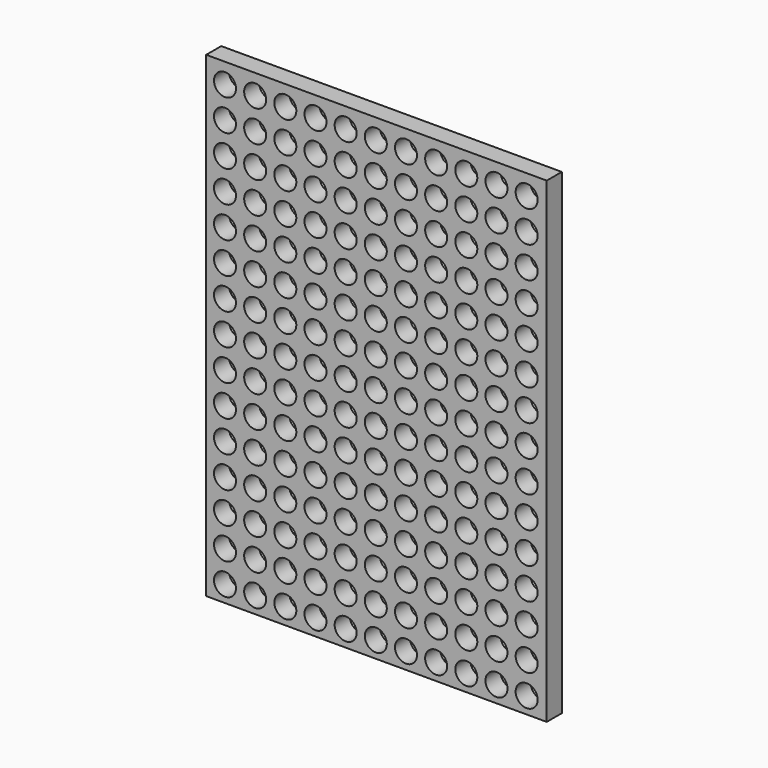
from build123d import *

# Parameters (mm, degrees)
F0_W     = 54.193953
F0_H     = 75.831049
F0_R     = 1.75
F1_DEPTH = 3


with BuildPart() as f1:
    # F0 (on Front) → F1 (new body)
    with BuildSketch(Plane.XZ):
        with Locations((27.096977, 37.915524)):
            Rectangle(F0_W, F0_H)
        with Locations((2.993953, 2.631049)):
            Circle(F0_R, mode=Mode.SUBTRACT)
        with Locations((2.993953, 7.631049)):
            Circle(F0_R, mode=Mode.SUBTRACT)
        with Locations((7.793953, 2.631049)):
            Circle(F0_R, mode=Mode.SUBTRACT)
        with Locations((12.593953, 2.631049)):
            Circle(F0_R, mode=Mode.SUBTRACT)
        with Locations((7.793953, 7.631049)):
            Circle(F0_R, mode=Mode.SUBTRACT)
        with Locations((12.593953, 7.631049)):
            Circle(F0_R, mode=Mode.SUBTRACT)
        with Locations((2.993953, 12.631049)):
            Circle(F0_R, mode=Mode.SUBTRACT)
        with Locations((2.993953, 17.631049)):
            Circle(F0_R, mode=Mode.SUBTRACT)
        with Locations((7.793953, 12.631049)):
            Circle(F0_R, mode=Mode.SUBTRACT)
        with Locations((12.593953, 12.631049)):
            Circle(F0_R, mode=Mode.SUBTRACT)
        with Locations((7.793953, 17.631049)):
            Circle(F0_R, mode=Mode.SUBTRACT)
        with Locations((12.593953, 17.631049)):
            Circle(F0_R, mode=Mode.SUBTRACT)
        with Locations((17.393953, 2.631049)):
            Circle(F0_R, mode=Mode.SUBTRACT)
        with Locations((17.393953, 7.631049)):
            Circle(F0_R, mode=Mode.SUBTRACT)
        with Locations((22.193953, 2.631049)):
            Circle(F0_R, mode=Mode.SUBTRACT)
        with Locations((26.993953, 2.631049)):
            Circle(F0_R, mode=Mode.SUBTRACT)
        with Locations((22.193953, 7.631049)):
            Circle(F0_R, mode=Mode.SUBTRACT)
        with Locations((26.993953, 7.631049)):
            Circle(F0_R, mode=Mode.SUBTRACT)
        with Locations((17.393953, 12.631049)):
            Circle(F0_R, mode=Mode.SUBTRACT)
        with Locations((17.393953, 17.631049)):
            Circle(F0_R, mode=Mode.SUBTRACT)
        with Locations((22.193953, 12.631049)):
            Circle(F0_R, mode=Mode.SUBTRACT)
        with Locations((26.993953, 12.631049)):
            Circle(F0_R, mode=Mode.SUBTRACT)
        with Locations((22.193953, 17.631049)):
            Circle(F0_R, mode=Mode.SUBTRACT)
        with Locations((26.993953, 17.631049)):
            Circle(F0_R, mode=Mode.SUBTRACT)
        with Locations((2.993953, 22.631049)):
            Circle(F0_R, mode=Mode.SUBTRACT)
        with Locations((2.993953, 27.631049)):
            Circle(F0_R, mode=Mode.SUBTRACT)
        with Locations((7.793953, 22.631049)):
            Circle(F0_R, mode=Mode.SUBTRACT)
        with Locations((12.593953, 22.631049)):
            Circle(F0_R, mode=Mode.SUBTRACT)
        with Locations((7.793953, 27.631049)):
            Circle(F0_R, mode=Mode.SUBTRACT)
        with Locations((12.593953, 27.631049)):
            Circle(F0_R, mode=Mode.SUBTRACT)
        with Locations((2.993953, 32.631049)):
            Circle(F0_R, mode=Mode.SUBTRACT)
        with Locations((2.993953, 37.631049)):
            Circle(F0_R, mode=Mode.SUBTRACT)
        with Locations((7.793953, 32.631049)):
            Circle(F0_R, mode=Mode.SUBTRACT)
        with Locations((12.593953, 32.631049)):
            Circle(F0_R, mode=Mode.SUBTRACT)
        with Locations((7.793953, 37.631049)):
            Circle(F0_R, mode=Mode.SUBTRACT)
        with Locations((12.593953, 37.631049)):
            Circle(F0_R, mode=Mode.SUBTRACT)
        with Locations((17.393953, 22.631049)):
            Circle(F0_R, mode=Mode.SUBTRACT)
        with Locations((17.393953, 27.631049)):
            Circle(F0_R, mode=Mode.SUBTRACT)
        with Locations((22.193953, 22.631049)):
            Circle(F0_R, mode=Mode.SUBTRACT)
        with Locations((26.993953, 22.631049)):
            Circle(F0_R, mode=Mode.SUBTRACT)
        with Locations((22.193953, 27.631049)):
            Circle(F0_R, mode=Mode.SUBTRACT)
        with Locations((26.993953, 27.631049)):
            Circle(F0_R, mode=Mode.SUBTRACT)
        with Locations((17.393953, 32.631049)):
            Circle(F0_R, mode=Mode.SUBTRACT)
        with Locations((17.393953, 37.631049)):
            Circle(F0_R, mode=Mode.SUBTRACT)
        with Locations((22.193953, 32.631049)):
            Circle(F0_R, mode=Mode.SUBTRACT)
        with Locations((26.993953, 32.631049)):
            Circle(F0_R, mode=Mode.SUBTRACT)
        with Locations((22.193953, 37.631049)):
            Circle(F0_R, mode=Mode.SUBTRACT)
        with Locations((26.993953, 37.631049)):
            Circle(F0_R, mode=Mode.SUBTRACT)
        with Locations((31.793953, 2.631049)):
            Circle(F0_R, mode=Mode.SUBTRACT)
        with Locations((31.793953, 7.631049)):
            Circle(F0_R, mode=Mode.SUBTRACT)
        with Locations((36.593953, 2.631049)):
            Circle(F0_R, mode=Mode.SUBTRACT)
        with Locations((36.593953, 7.631049)):
            Circle(F0_R, mode=Mode.SUBTRACT)
        with Locations((31.793953, 12.631049)):
            Circle(F0_R, mode=Mode.SUBTRACT)
        with Locations((31.793953, 17.631049)):
            Circle(F0_R, mode=Mode.SUBTRACT)
        with Locations((36.593953, 12.631049)):
            Circle(F0_R, mode=Mode.SUBTRACT)
        with Locations((36.593953, 17.631049)):
            Circle(F0_R, mode=Mode.SUBTRACT)
        with Locations((41.393953, 2.631049)):
            Circle(F0_R, mode=Mode.SUBTRACT)
        with Locations((46.193953, 2.631049)):
            Circle(F0_R, mode=Mode.SUBTRACT)
        with Locations((41.393953, 7.631049)):
            Circle(F0_R, mode=Mode.SUBTRACT)
        with Locations((46.193953, 7.631049)):
            Circle(F0_R, mode=Mode.SUBTRACT)
        with Locations((50.993953, 2.631049)):
            Circle(F0_R, mode=Mode.SUBTRACT)
        with Locations((50.993953, 7.631049)):
            Circle(F0_R, mode=Mode.SUBTRACT)
        with Locations((41.393953, 12.631049)):
            Circle(F0_R, mode=Mode.SUBTRACT)
        with Locations((46.193953, 12.631049)):
            Circle(F0_R, mode=Mode.SUBTRACT)
        with Locations((41.393953, 17.631049)):
            Circle(F0_R, mode=Mode.SUBTRACT)
        with Locations((46.193953, 17.631049)):
            Circle(F0_R, mode=Mode.SUBTRACT)
        with Locations((50.993953, 12.631049)):
            Circle(F0_R, mode=Mode.SUBTRACT)
        with Locations((50.993953, 17.631049)):
            Circle(F0_R, mode=Mode.SUBTRACT)
        with Locations((31.793953, 22.631049)):
            Circle(F0_R, mode=Mode.SUBTRACT)
        with Locations((31.793953, 27.631049)):
            Circle(F0_R, mode=Mode.SUBTRACT)
        with Locations((36.593953, 22.631049)):
            Circle(F0_R, mode=Mode.SUBTRACT)
        with Locations((36.593953, 27.631049)):
            Circle(F0_R, mode=Mode.SUBTRACT)
        with Locations((31.793953, 32.631049)):
            Circle(F0_R, mode=Mode.SUBTRACT)
        with Locations((31.793953, 37.631049)):
            Circle(F0_R, mode=Mode.SUBTRACT)
        with Locations((36.593953, 32.631049)):
            Circle(F0_R, mode=Mode.SUBTRACT)
        with Locations((36.593953, 37.631049)):
            Circle(F0_R, mode=Mode.SUBTRACT)
        with Locations((41.393953, 22.631049)):
            Circle(F0_R, mode=Mode.SUBTRACT)
        with Locations((46.193953, 22.631049)):
            Circle(F0_R, mode=Mode.SUBTRACT)
        with Locations((41.393953, 27.631049)):
            Circle(F0_R, mode=Mode.SUBTRACT)
        with Locations((46.193953, 27.631049)):
            Circle(F0_R, mode=Mode.SUBTRACT)
        with Locations((50.993953, 22.631049)):
            Circle(F0_R, mode=Mode.SUBTRACT)
        with Locations((50.993953, 27.631049)):
            Circle(F0_R, mode=Mode.SUBTRACT)
        with Locations((41.393953, 32.631049)):
            Circle(F0_R, mode=Mode.SUBTRACT)
        with Locations((46.193953, 32.631049)):
            Circle(F0_R, mode=Mode.SUBTRACT)
        with Locations((41.393953, 37.631049)):
            Circle(F0_R, mode=Mode.SUBTRACT)
        with Locations((46.193953, 37.631049)):
            Circle(F0_R, mode=Mode.SUBTRACT)
        with Locations((50.993953, 32.631049)):
            Circle(F0_R, mode=Mode.SUBTRACT)
        with Locations((50.993953, 37.631049)):
            Circle(F0_R, mode=Mode.SUBTRACT)
        with Locations((2.993953, 42.631049)):
            Circle(F0_R, mode=Mode.SUBTRACT)
        with Locations((7.793953, 42.631049)):
            Circle(F0_R, mode=Mode.SUBTRACT)
        with Locations((12.593953, 42.631049)):
            Circle(F0_R, mode=Mode.SUBTRACT)
        with Locations((2.993953, 47.631049)):
            Circle(F0_R, mode=Mode.SUBTRACT)
        with Locations((2.993953, 52.631049)):
            Circle(F0_R, mode=Mode.SUBTRACT)
        with Locations((7.793953, 47.631049)):
            Circle(F0_R, mode=Mode.SUBTRACT)
        with Locations((12.593953, 47.631049)):
            Circle(F0_R, mode=Mode.SUBTRACT)
        with Locations((7.793953, 52.631049)):
            Circle(F0_R, mode=Mode.SUBTRACT)
        with Locations((12.593953, 52.631049)):
            Circle(F0_R, mode=Mode.SUBTRACT)
        with Locations((17.393953, 42.631049)):
            Circle(F0_R, mode=Mode.SUBTRACT)
        with Locations((22.193953, 42.631049)):
            Circle(F0_R, mode=Mode.SUBTRACT)
        with Locations((26.993953, 42.631049)):
            Circle(F0_R, mode=Mode.SUBTRACT)
        with Locations((17.393953, 47.631049)):
            Circle(F0_R, mode=Mode.SUBTRACT)
        with Locations((17.393953, 52.631049)):
            Circle(F0_R, mode=Mode.SUBTRACT)
        with Locations((22.193953, 47.631049)):
            Circle(F0_R, mode=Mode.SUBTRACT)
        with Locations((26.993953, 47.631049)):
            Circle(F0_R, mode=Mode.SUBTRACT)
        with Locations((22.193953, 52.631049)):
            Circle(F0_R, mode=Mode.SUBTRACT)
        with Locations((26.993953, 52.631049)):
            Circle(F0_R, mode=Mode.SUBTRACT)
        with Locations((2.993953, 57.631049)):
            Circle(F0_R, mode=Mode.SUBTRACT)
        with Locations((2.993953, 62.631049)):
            Circle(F0_R, mode=Mode.SUBTRACT)
        with Locations((7.793953, 57.631049)):
            Circle(F0_R, mode=Mode.SUBTRACT)
        with Locations((12.593953, 57.631049)):
            Circle(F0_R, mode=Mode.SUBTRACT)
        with Locations((7.793953, 62.631049)):
            Circle(F0_R, mode=Mode.SUBTRACT)
        with Locations((12.593953, 62.631049)):
            Circle(F0_R, mode=Mode.SUBTRACT)
        with Locations((2.993953, 67.631049)):
            Circle(F0_R, mode=Mode.SUBTRACT)
        with Locations((2.993953, 72.631049)):
            Circle(F0_R, mode=Mode.SUBTRACT)
        with Locations((7.793953, 67.631049)):
            Circle(F0_R, mode=Mode.SUBTRACT)
        with Locations((12.593953, 67.631049)):
            Circle(F0_R, mode=Mode.SUBTRACT)
        with Locations((7.793953, 72.631049)):
            Circle(F0_R, mode=Mode.SUBTRACT)
        with Locations((12.593953, 72.631049)):
            Circle(F0_R, mode=Mode.SUBTRACT)
        with Locations((17.393953, 57.631049)):
            Circle(F0_R, mode=Mode.SUBTRACT)
        with Locations((17.393953, 62.631049)):
            Circle(F0_R, mode=Mode.SUBTRACT)
        with Locations((22.193953, 57.631049)):
            Circle(F0_R, mode=Mode.SUBTRACT)
        with Locations((26.993953, 57.631049)):
            Circle(F0_R, mode=Mode.SUBTRACT)
        with Locations((22.193953, 62.631049)):
            Circle(F0_R, mode=Mode.SUBTRACT)
        with Locations((26.993953, 62.631049)):
            Circle(F0_R, mode=Mode.SUBTRACT)
        with Locations((17.393953, 67.631049)):
            Circle(F0_R, mode=Mode.SUBTRACT)
        with Locations((17.393953, 72.631049)):
            Circle(F0_R, mode=Mode.SUBTRACT)
        with Locations((22.193953, 67.631049)):
            Circle(F0_R, mode=Mode.SUBTRACT)
        with Locations((26.993953, 67.631049)):
            Circle(F0_R, mode=Mode.SUBTRACT)
        with Locations((22.193953, 72.631049)):
            Circle(F0_R, mode=Mode.SUBTRACT)
        with Locations((26.993953, 72.631049)):
            Circle(F0_R, mode=Mode.SUBTRACT)
        with Locations((31.793953, 42.631049)):
            Circle(F0_R, mode=Mode.SUBTRACT)
        with Locations((36.593953, 42.631049)):
            Circle(F0_R, mode=Mode.SUBTRACT)
        with Locations((31.793953, 47.631049)):
            Circle(F0_R, mode=Mode.SUBTRACT)
        with Locations((31.793953, 52.631049)):
            Circle(F0_R, mode=Mode.SUBTRACT)
        with Locations((36.593953, 47.631049)):
            Circle(F0_R, mode=Mode.SUBTRACT)
        with Locations((36.593953, 52.631049)):
            Circle(F0_R, mode=Mode.SUBTRACT)
        with Locations((41.393953, 42.631049)):
            Circle(F0_R, mode=Mode.SUBTRACT)
        with Locations((46.193953, 42.631049)):
            Circle(F0_R, mode=Mode.SUBTRACT)
        with Locations((50.993953, 42.631049)):
            Circle(F0_R, mode=Mode.SUBTRACT)
        with Locations((41.393953, 47.631049)):
            Circle(F0_R, mode=Mode.SUBTRACT)
        with Locations((46.193953, 47.631049)):
            Circle(F0_R, mode=Mode.SUBTRACT)
        with Locations((41.393953, 52.631049)):
            Circle(F0_R, mode=Mode.SUBTRACT)
        with Locations((46.193953, 52.631049)):
            Circle(F0_R, mode=Mode.SUBTRACT)
        with Locations((50.993953, 47.631049)):
            Circle(F0_R, mode=Mode.SUBTRACT)
        with Locations((50.993953, 52.631049)):
            Circle(F0_R, mode=Mode.SUBTRACT)
        with Locations((31.793953, 57.631049)):
            Circle(F0_R, mode=Mode.SUBTRACT)
        with Locations((31.793953, 62.631049)):
            Circle(F0_R, mode=Mode.SUBTRACT)
        with Locations((36.593953, 57.631049)):
            Circle(F0_R, mode=Mode.SUBTRACT)
        with Locations((36.593953, 62.631049)):
            Circle(F0_R, mode=Mode.SUBTRACT)
        with Locations((31.793953, 67.631049)):
            Circle(F0_R, mode=Mode.SUBTRACT)
        with Locations((31.793953, 72.631049)):
            Circle(F0_R, mode=Mode.SUBTRACT)
        with Locations((36.593953, 67.631049)):
            Circle(F0_R, mode=Mode.SUBTRACT)
        with Locations((36.593953, 72.631049)):
            Circle(F0_R, mode=Mode.SUBTRACT)
        with Locations((41.393953, 57.631049)):
            Circle(F0_R, mode=Mode.SUBTRACT)
        with Locations((46.193953, 57.631049)):
            Circle(F0_R, mode=Mode.SUBTRACT)
        with Locations((41.393953, 62.631049)):
            Circle(F0_R, mode=Mode.SUBTRACT)
        with Locations((46.193953, 62.631049)):
            Circle(F0_R, mode=Mode.SUBTRACT)
        with Locations((50.993953, 57.631049)):
            Circle(F0_R, mode=Mode.SUBTRACT)
        with Locations((50.993953, 62.631049)):
            Circle(F0_R, mode=Mode.SUBTRACT)
        with Locations((41.393953, 67.631049)):
            Circle(F0_R, mode=Mode.SUBTRACT)
        with Locations((46.193953, 67.631049)):
            Circle(F0_R, mode=Mode.SUBTRACT)
        with Locations((41.393953, 72.631049)):
            Circle(F0_R, mode=Mode.SUBTRACT)
        with Locations((46.193953, 72.631049)):
            Circle(F0_R, mode=Mode.SUBTRACT)
        with Locations((50.993953, 67.631049)):
            Circle(F0_R, mode=Mode.SUBTRACT)
        with Locations((50.993953, 72.631049)):
            Circle(F0_R, mode=Mode.SUBTRACT)
    extrude(amount=F1_DEPTH)


solid = f1.part
